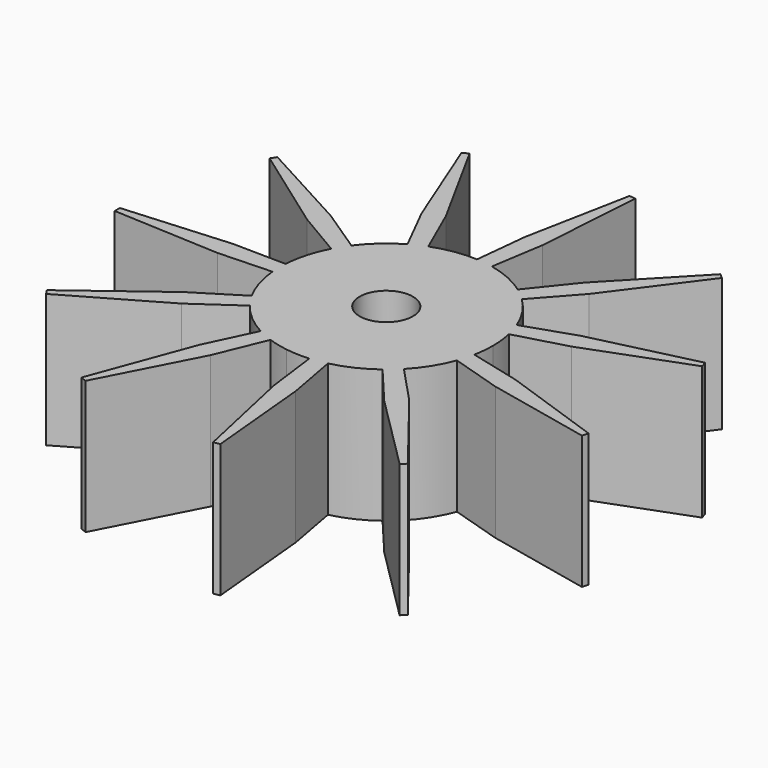
from build123d import *

# Parameters (mm, degrees)
F0_R     = 1
F1_DEPTH = 5
F2_DEPTH = 5
F3_COUNT = 11


with BuildPart() as f1:
    # F0 (on Top) → F1 (new body)
    with BuildSketch(Plane.XY):
        with BuildLine():
            ThreePointArc((4, 0), (3.1085838458, 2.5172815642), (0.8316467633, 3.9125904029))
            ThreePointArc((0.8316467633, 3.9125904029), (0.5221047689, 3.9657794455), (0.209343825, 3.994518139))
            ThreePointArc((0.209343825, 3.994518139), (-2.901497484, -2.7534183028), (4, 0))
        make_face()
        Circle(F0_R, mode=Mode.SUBTRACT)
    extrude(amount=F1_DEPTH)

    # F0 (on Top) → F2 (join)
    with BuildSketch(Plane.XY):
        with BuildLine():
            Line((1.1448017618, 5.8897732491), (1.4250798414, 9.8979365246))
            ThreePointArc((1.4250798414, 9.8979365246), (1.3052619222, 9.9144486137), (1.1852530565, 9.9295103199))
            Line((1.1852530565, 9.9295103199), (0.4185919005, 5.9853805911))
            Line((0.4185919005, 5.9853805911), (0.209343825, 3.994518139))
            ThreePointArc((0.209343825, 3.994518139), (0.5221047689, 3.9657794455), (0.8316467633, 3.9125904029))
            Line((0.8316467633, 3.9125904029), (1.1448017618, 5.8897732491))
        make_face()
    extrude(amount=F2_DEPTH)

    # F3: F1 ×11 about axis
    f3_axis = Axis((0, 0, 0), (0, 0, -1))


with BuildPart() as f1_1:
    add(f1.part)
    for i in range(1, F3_COUNT):
        add(f1.part.rotate(f3_axis, i * 360 / F3_COUNT))


solid = f1_1.part
